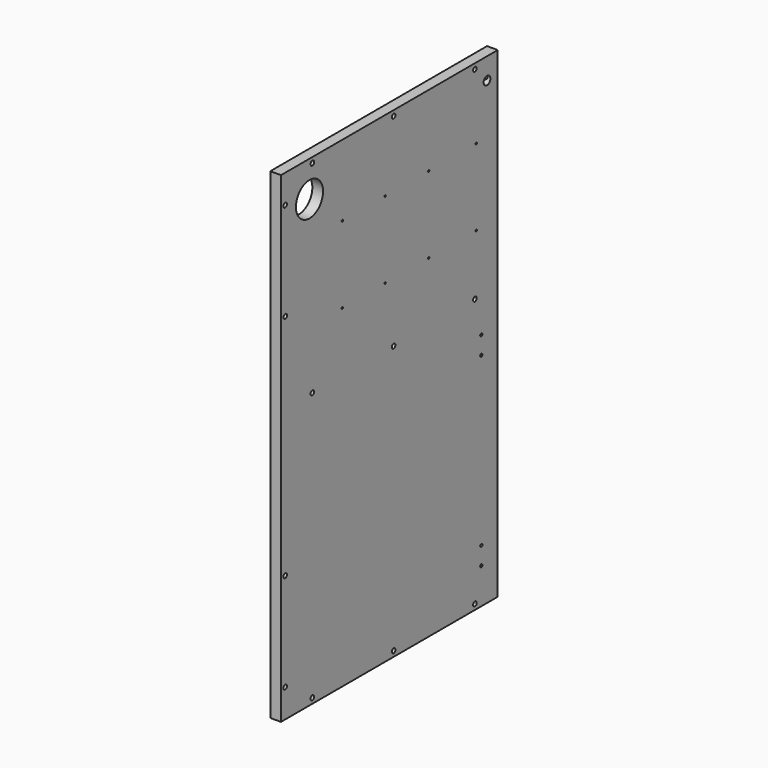
from build123d import *

# Parameters (mm, degrees)
F0_W      = 482.6
F0_H      = 857.25
F1_DEPTH  = 19.05
F3_D      = 8.001
F3_DEPTH  = 14.224
F3_TIP    = 2.4037429064
F5_D      = 15.0114
F5_DEPTH  = 14.224
F5_TIP    = 4.5098795482
F7_D      = 8.001
F7_DEPTH  = 25.4
F7_TIP    = 2.4037429064
F9_D      = 3.175
F9_DEPTH  = 14.224
F9_TIP    = 0.9538662327
F10_D     = 5.0038
F10_DEPTH = 14.224
F10_TIP   = 1.5032931827
F12_DEPTH = 25.4
F13_D     = 8.001
F13_DEPTH = 14.224
F13_TIP   = 2.4037429064


with BuildPart() as f1:
    # F0 (on Right) → F1 (new body)
    with BuildSketch(Plane.YZ):
        Rectangle(F0_W, F0_H)
    extrude(amount=F1_DEPTH)

    # F3
    with Locations(Plane.YZ.offset(19.05)):
        with Locations((-190.5, 419.1), (-9.525, 419.1), (171.45, 419.1), (231.775, 377.825), (231.775, 203.2), (231.775, -203.2), (231.775, -377.825), (171.45, -419.1), (-9.525, -419.1), (-190.5, -419.1)):
            Hole(F3_D / 2, depth=F3_DEPTH)
            with Locations((0, 0, -(F3_DEPTH + F3_TIP / 2))):  # 118° drill point
                Cone(0, F3_D / 2, F3_TIP, mode=Mode.SUBTRACT)

    # F5
    with Locations(Plane.YZ.offset(19.05)):
        with Locations((-217.424, 390.525)):
            Hole(F5_D / 2, depth=F5_DEPTH)
            with Locations((0, 0, -(F5_DEPTH + F5_TIP / 2))):  # 118° drill point
                Cone(0, F5_D / 2, F5_TIP, mode=Mode.SUBTRACT)

    # F7
    with Locations(Plane.XZ.offset(241.3)):
        with Locations((9.525, 390.525)):
            Hole(F7_D / 2, depth=F7_DEPTH)
            with Locations((0, 0, -(F7_DEPTH + F7_TIP / 2))):  # 118° drill point
                Cone(0, F7_D / 2, F7_TIP, mode=Mode.SUBTRACT)

    # F9
    with Locations(Plane.YZ.offset(19.05)):
        with Locations((-193.675, 301.625), (-87.376, 301.625), (104.775, 301.625), (104.775, 165.1), (9.525, 165.1), (-87.376, 165.1), (9.525, 301.625), (-193.675, 165.1)):
            Hole(F9_D / 2, depth=F9_DEPTH)
            with Locations((0, 0, -(F9_DEPTH + F9_TIP / 2))):  # 118° drill point
                Cone(0, F9_D / 2, F9_TIP, mode=Mode.SUBTRACT)

    # F10
    with Locations(Plane.YZ.offset(19.05)):
        with Locations((-204.724, -3.175), (-204.724, -34.925), (-204.724, -333.375), (-204.724, -365.125)):
            Hole(F10_D / 2, depth=F10_DEPTH)
            with Locations((0, 0, -(F10_DEPTH + F10_TIP / 2))):  # 118° drill point
                Cone(0, F10_D / 2, F10_TIP, mode=Mode.SUBTRACT)

    # F11 (on face) → F12 (cut)
    with BuildSketch(Plane.YZ.offset(19.05)):
        with BuildLine():
            ThreePointArc((207.9625, 365.125), (199.1281082875, 386.4531082875), (177.8, 395.2875))
            ThreePointArc((177.8, 395.2875), (156.4718917125, 343.7968917125), (207.9625, 365.125))
        make_face()
    extrude(amount=-F12_DEPTH, mode=Mode.SUBTRACT)

    # F13
    with Locations(Plane.YZ.offset(19.05)):
        with Locations((-190.5, 58.7375), (-9.525, 58.7375), (171.45, 58.7375)):
            Hole(F13_D / 2, depth=F13_DEPTH)
            with Locations((0, 0, -(F13_DEPTH + F13_TIP / 2))):  # 118° drill point
                Cone(0, F13_D / 2, F13_TIP, mode=Mode.SUBTRACT)


with BuildPart() as f14_1:
    # F14: instance of F1
    add(f1.part.mirror(Plane(origin=(9.525, 241.3, 0), x_dir=(-1, 0, 0), z_dir=(0, 1, 0))))


solid = f14_1.part
